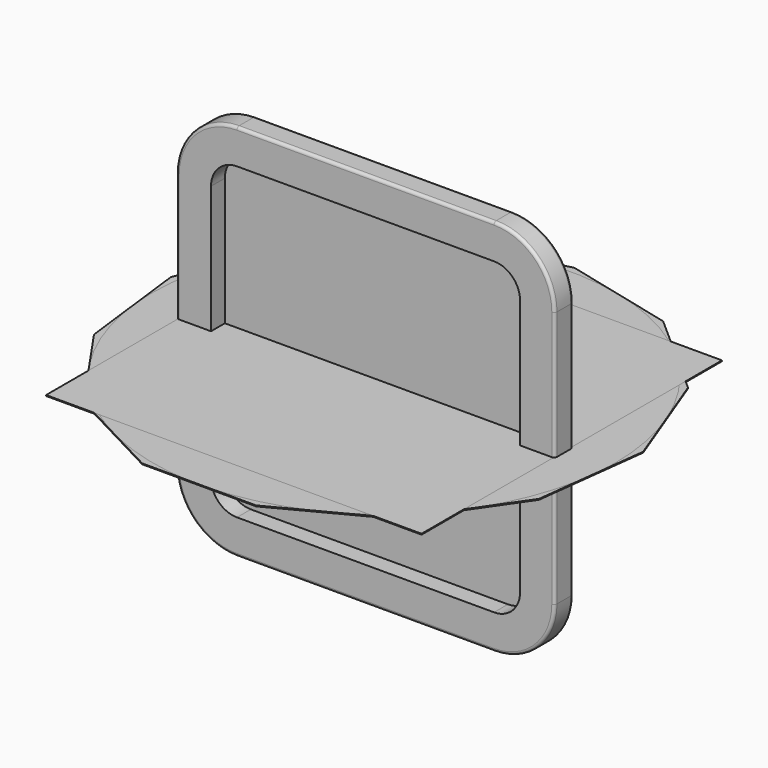
from build123d import *

# Parameters (mm, degrees)
F1_DEPTH  = 2
F2_DEPTH  = 8
F3_R      = 1
F5_DEPTH  = 0.3
F6_R      = 27.6317342949
F7_DEPTH  = 0.3
F8_R      = 80
F9_DEPTH  = 0.3
F10_W     = 130
F10_H     = 130
F11_DEPTH = 0.3


with BuildPart() as f1:
    # F0 (on Front) → F1 (new body)
    with BuildSketch(Plane.XZ):
        with BuildLine():
            Line((65.5, -44.5), (65.5, 44.5))
            ThreePointArc((65.5, 44.5), (59.3492424049, 59.3492424049), (44.5, 65.5))
            Line((44.5, 65.5), (-44.5, 65.5))
            ThreePointArc((-44.5, 65.5), (-59.3492424049, 59.3492424049), (-65.5, 44.5))
            Line((-65.5, 44.5), (-65.5, -44.5))
            ThreePointArc((-65.5, -44.5), (-59.3492424049, -59.3492424049), (-44.5, -65.5))
            Line((-44.5, -65.5), (44.5, -65.5))
            ThreePointArc((44.5, -65.5), (59.3492424049, -59.3492424049), (65.5, -44.5))
        make_face()
        with BuildLine():
            Line((-44.5, 53.5), (44.5, 53.5))
            ThreePointArc((44.5, 53.5), (50.8639610307, 50.8639610307), (53.5, 44.5))
            Line((53.5, 44.5), (53.5, -44.5))
            ThreePointArc((53.5, -44.5), (50.8639610307, -50.8639610307), (44.5, -53.5))
            Line((44.5, -53.5), (-44.5, -53.5))
            ThreePointArc((-44.5, -53.5), (-50.8639610307, -50.8639610307), (-53.5, -44.5))
            Line((-53.5, -44.5), (-53.5, 44.5))
            ThreePointArc((-53.5, 44.5), (-50.8639610307, 50.8639610307), (-44.5, 53.5))
        make_face(mode=Mode.SUBTRACT)
        with BuildLine():
            ThreePointArc((53.5, 44.5), (50.8639610307, 50.8639610307), (44.5, 53.5))
            Line((44.5, 53.5), (-44.5, 53.5))
            ThreePointArc((-44.5, 53.5), (-50.8639610307, 50.8639610307), (-53.5, 44.5))
            Line((-53.5, 44.5), (-53.5, -44.5))
            ThreePointArc((-53.5, -44.5), (-50.8639610307, -50.8639610307), (-44.5, -53.5))
            Line((-44.5, -53.5), (44.5, -53.5))
            ThreePointArc((44.5, -53.5), (50.8639610307, -50.8639610307), (53.5, -44.5))
            Line((53.5, -44.5), (53.5, 44.5))
        make_face()
    extrude(amount=F1_DEPTH)

    # F0 (on Front) → F2 (join)
    with BuildSketch(Plane.XZ):
        with BuildLine():
            Line((65.5, -44.5), (65.5, 44.5))
            ThreePointArc((65.5, 44.5), (59.3492424049, 59.3492424049), (44.5, 65.5))
            Line((44.5, 65.5), (-44.5, 65.5))
            ThreePointArc((-44.5, 65.5), (-59.3492424049, 59.3492424049), (-65.5, 44.5))
            Line((-65.5, 44.5), (-65.5, -44.5))
            ThreePointArc((-65.5, -44.5), (-59.3492424049, -59.3492424049), (-44.5, -65.5))
            Line((-44.5, -65.5), (44.5, -65.5))
            ThreePointArc((44.5, -65.5), (59.3492424049, -59.3492424049), (65.5, -44.5))
        make_face()
        with BuildLine():
            Line((-44.5, 53.5), (44.5, 53.5))
            ThreePointArc((44.5, 53.5), (50.8639610307, 50.8639610307), (53.5, 44.5))
            Line((53.5, 44.5), (53.5, -44.5))
            ThreePointArc((53.5, -44.5), (50.8639610307, -50.8639610307), (44.5, -53.5))
            Line((44.5, -53.5), (-44.5, -53.5))
            ThreePointArc((-44.5, -53.5), (-50.8639610307, -50.8639610307), (-53.5, -44.5))
            Line((-53.5, -44.5), (-53.5, 44.5))
            ThreePointArc((-53.5, 44.5), (-50.8639610307, 50.8639610307), (-44.5, 53.5))
        make_face(mode=Mode.SUBTRACT)
    extrude(amount=F2_DEPTH)

    # F3
    f3_edges = [f1.edges().sort_by_distance(p)[0] for p in [
        (0, 0, -65.5),
        (0, -8, -65.5),
    ]]
    fillet(f3_edges, radius=F3_R)


with BuildPart() as f5:
    # F4 (on Top) → F5 (new body)
    with BuildSketch(Plane.XY):
        Polygon((67.8091190325, 46.8052553952), (38.290506286, 72.9564643122), (0, 82.394226476), (-38.290506286, 72.9564643122), (-67.8091190325, 46.8052553952), (-81.7934797971, 9.9315265316), (-77.0399400585, -29.2173953725), (-54.6374784844, -61.6729641045), (-19.7182290426, -80), (19.7182290426, -80), (54.6374784844, -61.6729641045), (77.0399400585, -29.2173953725), (81.7934797971, 9.9315265316), align=None)
    extrude(amount=F5_DEPTH)

    # F6 (on face) → F7 (cut)
    with BuildSketch(Plane.XY.offset(0.3)):
        Circle(F6_R)
    extrude(amount=-F7_DEPTH, mode=Mode.SUBTRACT)


with BuildPart() as f9:
    # F8 (on Top) → F9 (new body)
    with BuildSketch(Plane.XY):
        Circle(F8_R)
    extrude(amount=F9_DEPTH)


with BuildPart() as f11:
    # F10 (on Top) → F11 (new body)
    with BuildSketch(Plane.XY):
        Rectangle(F10_W, F10_H)
    extrude(amount=F11_DEPTH)


solid = Compound([f1.part, f5.part, f9.part, f11.part])
